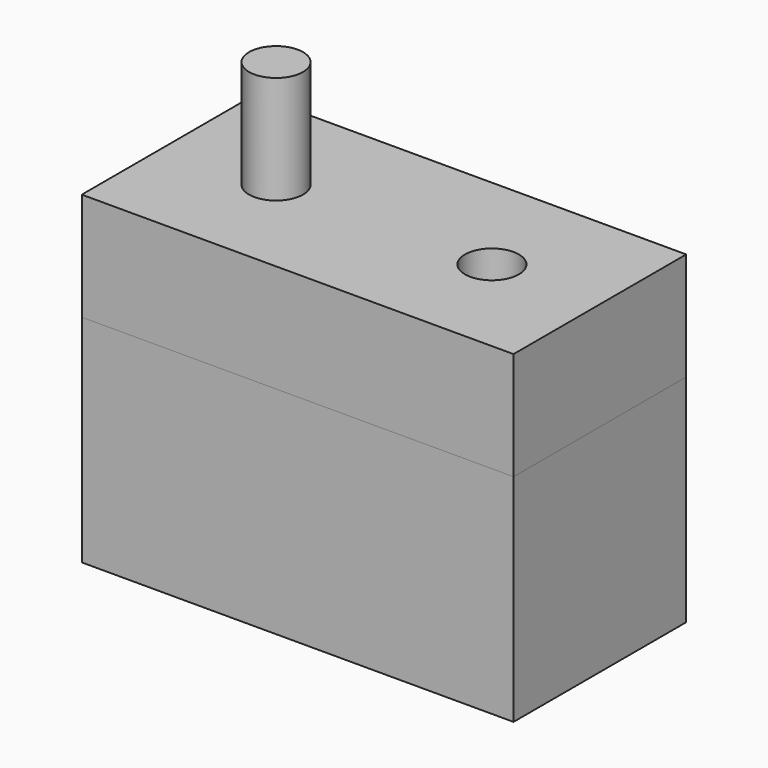
from build123d import *

# Parameters (mm, degrees)
F0_W      = 101.6
F0_H      = 50.8
F0_R      = 6.35
F1_DEPTH  = 25.4
F1_FACE_W = 101.6
F1_FACE_H = 50.8
F1_FACE_R = 6.35
F2_DEPTH  = 50.8
F3_R      = 6.35
F4_DEPTH  = 101.6


with BuildPart() as f1:
    # F0 (on Top) → F1 (new body)
    with BuildSketch(Plane.XY):
        with Locations((50.8, 25.4)):
            Rectangle(F0_W, F0_H)
        with Locations((25.4, 25.4)):
            Circle(F0_R, mode=Mode.SUBTRACT)
        with Locations((76.2, 25.4)):
            Circle(F0_R, mode=Mode.SUBTRACT)
    extrude(amount=F1_DEPTH)


with BuildPart() as f2:
    # F1_face (on face) → F2 (new body)
    with BuildSketch(Plane(origin=(50.8, 25.4, 0), x_dir=(1, 0, 0), z_dir=(0, 0, -1))):
        Rectangle(F1_FACE_W, F1_FACE_H)
        with Locations((-25.4, 0)):
            Circle(F1_FACE_R, mode=Mode.SUBTRACT)
        with Locations((25.4, 0)):
            Circle(F1_FACE_R, mode=Mode.SUBTRACT)
    extrude(amount=F2_DEPTH)


with BuildPart() as f4:
    # F3 (on face) → F4 (new body)
    with BuildSketch(Plane(origin=(0, 0, -50.8), x_dir=(1, 0, 0), z_dir=(0, 0, -1))):
        with Locations((25.4, -25.4)):
            Circle(F3_R)
    extrude(amount=-F4_DEPTH)


solid = Compound([f1.part, f2.part, f4.part])
